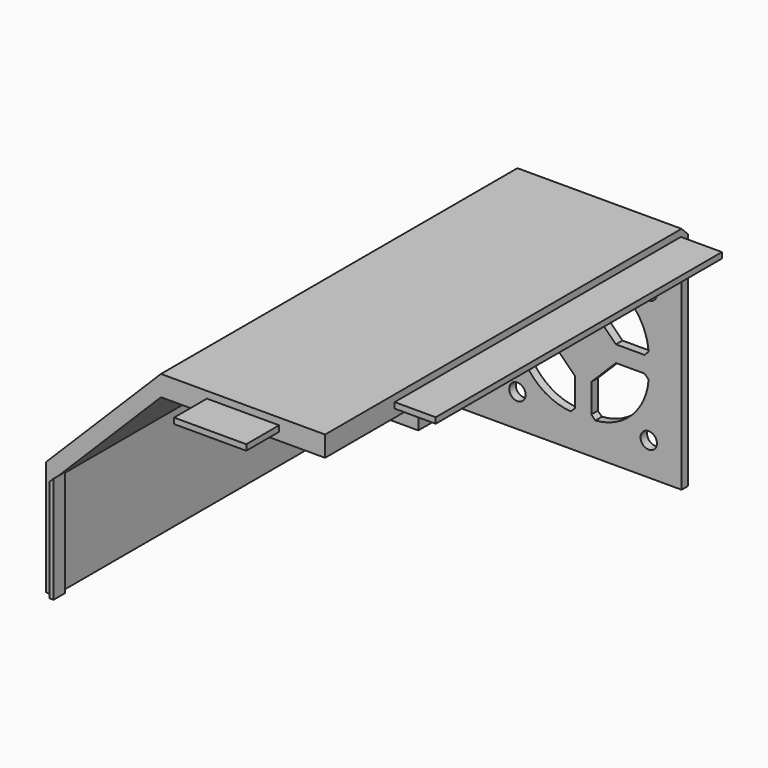
from build123d import *

# Parameters (mm, degrees)
SKETCH_1_W        = 40
SKETCH_1_H        = 93
PAD_DEPTH         = 5
PAD_FACE3_W       = 40
PAD_FACE3_H       = 5
PAD011_DEPTH      = 10.2
SKETCH_W          = 40
SKETCH_H          = 7.4
PAD001_DEPTH      = 5
PAD002_DEPTH      = 110.6
SKETCH005_W       = 9.2
SKETCH005_H       = 9.2
POCKET_DEPTH      = 33.001
SKETCH006_W       = 2
SKETCH006_H       = 101.4
PAD006_DEPTH      = 23
SKETCH011_W       = 87.2
SKETCH011_H       = 1.4
PAD010_DEPTH      = 10
PAD012_DEPTH      = 2
PAD013_DEPTH      = 7.2
PAD014_DEPTH      = 2
SKETCH016_W       = 9.2
SKETCH016_H       = 5
PAD015_DEPTH      = 9.2
SKETCH017_R       = 1.6
POCKET001_DEPTH   = 5
SKETCH018_W       = 17.6
SKETCH018_H       = 1.4
PAD016_DEPTH      = 10
SKETCH019_R       = 2
POCKET002_DEPTH   = 2
CHAMFER_SIZE      = 6
CHAMFER001_SIZE   = 2
PAD017_DEPTH      = 1.5
PAD017_DEPTH_BACK = 3
CHAMFER002_SIZE   = 0.99
CHAMFER003_SIZE   = 1


with BuildPart() as part:
    # Sketch_1 → Pad (new body)
    with BuildSketch(Plane.XY):
        with Locations((-20, 46.5)):
            Rectangle(SKETCH_1_W, SKETCH_1_H)
    extrude(amount=PAD_DEPTH)

    # Pad Face3 → Pad011 (add)
    with BuildSketch(Plane(origin=(-20, 93, 2.5), x_dir=(1, 0, 0), z_dir=(0, 1, 0))):
        Rectangle(PAD_FACE3_W, PAD_FACE3_H)
    extrude(amount=PAD011_DEPTH)

    # Sketch → Pad001 (join)
    with BuildSketch(Plane.XY):
        with Locations((-20, -3.7)):
            Rectangle(SKETCH_W, SKETCH_H)
    extrude(amount=PAD001_DEPTH)

    # Sketch001 (on Face9 of Pad001) → Pad002 (join)
    with BuildSketch(Plane.XZ.offset(7.4)):
        Polygon((-40, 5), (-68, -23), (-68, -28), (-66, -28), (-66, -26), (-40, 0), align=None)
    extrude(amount=-PAD002_DEPTH)

    # Sketch005 (on Face11 of Pad002) → Pocket (cut, through all)
    with BuildSketch(Plane.XY.offset(5)):
        with Locations((-63.4, 98.6)):
            Rectangle(SKETCH005_W, SKETCH005_H)
    extrude(amount=-POCKET_DEPTH, mode=Mode.SUBTRACT)

    # Sketch006 → Pad006 (join)
    with BuildSketch(Plane(origin=(0, 0, -28), x_dir=(1, 0, 0), z_dir=(0, 0, -1))):
        with Locations((-67, -43.3)):
            Rectangle(SKETCH006_W, SKETCH006_H)
    extrude(amount=PAD006_DEPTH)

    # Sketch011 → Pad010 (join)
    with BuildSketch(Plane.YZ):
        with Locations((57.4, 2.64)):
            Rectangle(SKETCH011_W, SKETCH011_H)
    extrude(amount=PAD010_DEPTH)

    # Sketch013 (on Face8 of Pad006) → Pad012 (join)
    with BuildSketch(Plane(origin=(0, 103.2, 0), x_dir=(-1, 0, 0), z_dir=(0, 1, 0))):
        Polygon((0, 0), (40, 0), (58.8, -18.8), (58.8, -51), (0, -51), align=None)
    extrude(amount=-PAD012_DEPTH)

    # Sketch014 (on Face24 of Pad012) → Pad013 (join)
    with BuildSketch(Plane.XZ.offset(-101.2)):
        Polygon((-58.8, -51), (-58.8, -18.8), (-56.8, -16.8), (-56.8, -51), (-56.8, -53), (-58.8, -53), align=None)
    extrude(amount=PAD013_DEPTH)

    # Sketch015 (on Face23 of Pad013) → Pad014 (join)
    with BuildSketch(Plane.XZ.offset(-94)):
        Polygon((-56.8, -53), (-66, -53), (-66, -26), (-56.8, -16.8), align=None)
    extrude(amount=PAD014_DEPTH)

    # Sketch016 (on Face41 of Pad014) → Pad015 (join)
    with BuildSketch(Plane(origin=(-58.8, 0, 0), x_dir=(0, -1, 0), z_dir=(-1, 0, 0))):
        with Locations((-98.6, -48.5)):
            Rectangle(SKETCH016_W, SKETCH016_H)
    extrude(amount=PAD015_DEPTH)

    # Sketch017 (on Face49 of Pad015) → Pocket001 (cut)
    with BuildSketch(Plane.XY.offset(-46)):
        with Locations((-62.4, 97.6)):
            Circle(SKETCH017_R)
    extrude(amount=-POCKET001_DEPTH, mode=Mode.SUBTRACT)

    # Sketch018 (on Face12 of Pocket001) → Pad016 (join)
    with BuildSketch(Plane.XZ.offset(7.4)):
        with Locations((-20, 2.64)):
            Rectangle(SKETCH018_W, SKETCH018_H)
    extrude(amount=PAD016_DEPTH)

    # Sketch019 (on Face34 of Pad016) → Pocket002 (cut)
    with BuildSketch(Plane(origin=(0, 103.2, 0), x_dir=(-1, 0, 0), z_dir=(0, 1, 0))):
        with Locations((8, -11)):
            Circle(SKETCH019_R)
        with Locations((8, -43)):
            Circle(SKETCH019_R)
        with Locations((40, -43)):
            Circle(SKETCH019_R)
        with Locations((40, -11)):
            Circle(SKETCH019_R)
        with BuildLine():
            Line((8, -25), (22, -25))
            Line((22, -25), (22, -11))
            ThreePointArc((22, -11), (12.100505, -15.100505), (8, -25))
        make_face()
        with BuildLine():
            Line((26, -25), (26, -11))
            ThreePointArc((40, -25), (35.899495, -15.100505), (26, -11))
            Line((26, -25), (40, -25))
        make_face()
        with BuildLine():
            Line((22, -29), (8, -29))
            ThreePointArc((8, -29), (12.100505, -38.899495), (22, -43))
            Line((22, -29), (22, -43))
        make_face()
        with BuildLine():
            Line((26, -29), (40, -29))
            ThreePointArc((26, -43), (35.899495, -38.899495), (40, -29))
            Line((26, -29), (26, -43))
        make_face()
    extrude(amount=-POCKET002_DEPTH, mode=Mode.SUBTRACT)

    # Chamfer
    chamfer_edges = [part.edges().sort_by_distance(p)[0] for p in [
        (-22, 102.2, -25),
        (-26, 102.2, -25),
        (-22, 102.2, -29),
        (-26, 102.2, -29),
    ]]
    chamfer(chamfer_edges, length=CHAMFER_SIZE)

    # Chamfer001
    chamfer001_edges = [part.edges().sort_by_distance(p)[0] for p in [
        (-20, 103.2, 5),
    ]]
    chamfer(chamfer001_edges, length=CHAMFER001_SIZE)

    # Sketch020 (on Face62 of Chamfer001) → Pad017 (join, two sides)
    with BuildSketch(Plane.XZ.offset(7.4)) as pad017_sk:
        Polygon((-66, -51), (-66, -26), (-65, -25), (-65, -51), align=None)
    extrude(amount=PAD017_DEPTH)
    extrude(pad017_sk.sketch, amount=-PAD017_DEPTH_BACK)

    # Chamfer002
    chamfer002_edges = [part.edges().sort_by_distance(p)[0] for p in [
        (-65, -4.4, -38),
    ]]
    chamfer(chamfer002_edges, length=CHAMFER002_SIZE)

    # Chamfer003
    chamfer003_edges = [part.edges().sort_by_distance(p)[0] for p in [
        (-8, 102.2, -25),
        (-8, 102.2, -29),
        (-22, 102.2, -11),
        (-26, 102.2, -11),
        (-40, 102.2, -25),
        (-40, 102.2, -29),
        (-26, 102.2, -43),
        (-22, 102.2, -43),
    ]]
    chamfer(chamfer003_edges, length=CHAMFER003_SIZE)


solid = part.part
